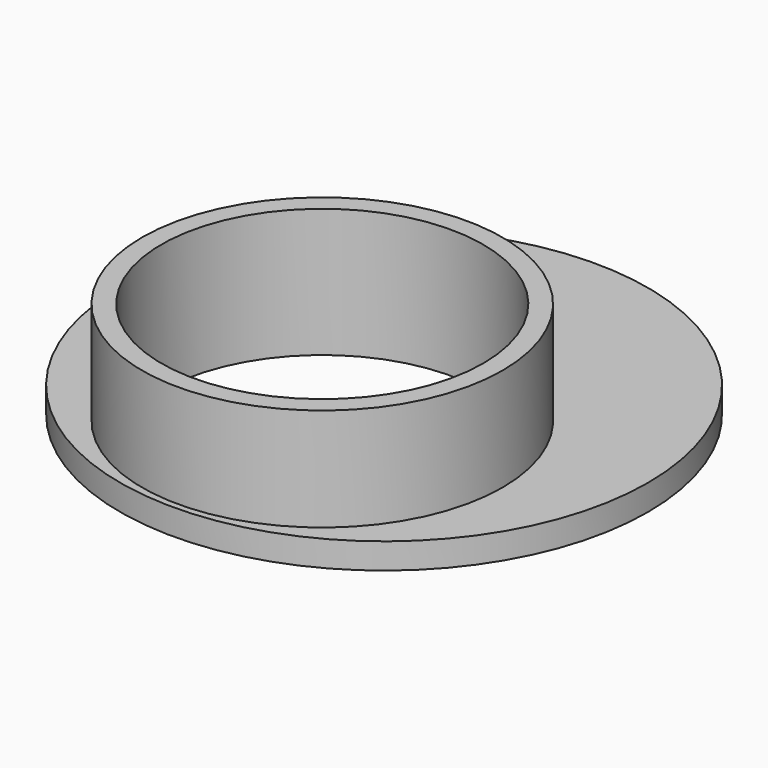
from build123d import *

# Parameters (mm, degrees)
CYLINDER017_R     = 6.25
CYLINDER017_DEPTH = 10
CYLINDER016_R     = 7
CYLINDER016_DEPTH = 5
CYLINDER015_R     = 10.25
CYLINDER015_DEPTH = 1


with BuildPart() as redtmp07:
    # Cylinder017 → Cylinder017 (new body)
    with BuildSketch(Plane(origin=(0, -3, 0), x_dir=(1, 0, 0), z_dir=(0, 0, 1))):
        Circle(CYLINDER017_R)
    extrude(amount=CYLINDER017_DEPTH)


with BuildPart() as redtmp06:
    # Cylinder016 → Cylinder016 (new body)
    with BuildSketch(Plane(origin=(0, -3, 0), x_dir=(1, 0, 0), z_dir=(0, 0, 1))):
        Circle(CYLINDER016_R)
    extrude(amount=CYLINDER016_DEPTH)


with BuildPart() as redtop:
    # Cylinder015 → Cylinder015 (new body)
    with BuildSketch(Plane.XY):
        Circle(CYLINDER015_R)
    extrude(amount=CYLINDER015_DEPTH)

    # Fusion001: union RedTmp06
    add(redtmp06.part)

    # Cut010: cut RedTmp07
    add(redtmp07.part, mode=Mode.SUBTRACT)


with BuildPart() as redtop_1:
    # Cut010 placement: moved
    add(redtop.part.moved(Location((10, 40, 8))))


solid = redtop_1.part
